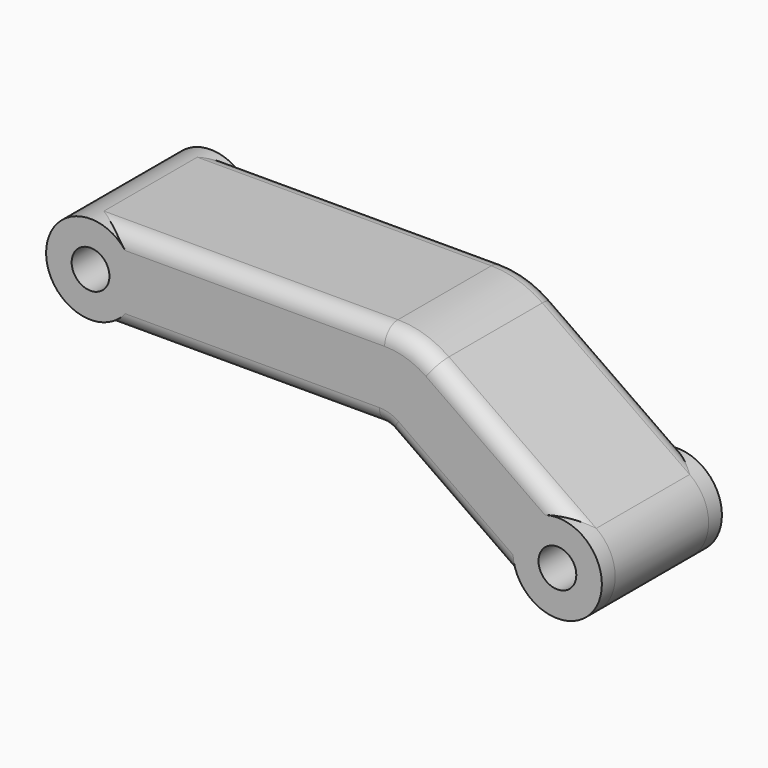
from build123d import *

# Parameters (mm, degrees)
SKETCH007_R              = 1.7
PAD019_DEPTH             = 13.5
FILLET006_R              = 1.5
SKETCH035_R              = 4
SKETCH035_R_2            = 1.7
PAD020_DEPTH             = 13.5
CLONE161_PLACEMENT_ANGLE = 180


with BuildPart() as part:
    # Sketch007 → Pad019 (new body)
    with BuildSketch(Plane(origin=(0, 19.25, 0), x_dir=(-1, 0, 0), z_dir=(0, 1, 0))):
        with BuildLine():
            ThreePointArc((12, 26), (8, 22), (12, 18))
            Line((12, 18), (37.984377, 18))
            ThreePointArc((38.844741, 17.728728), (38.435435, 17.930575), (37.984377, 18))
            Line((38.844741, 17.728728), (51.705713, 8.723378))
            ThreePointArc((51.705713, 8.723378), (57.276616, 9.705705), (56.294304, 15.27661))
            Line((43.045936, 24.553216), (56.294304, 15.27661))
            ThreePointArc((43.045936, 24.553216), (40.862971, 25.629736), (38.457325, 26))
            Line((12, 26), (38.457325, 26))
        make_face()
        with Locations((12, 22)):
            Circle(SKETCH007_R, mode=Mode.SUBTRACT)
        with Locations((54, 12)):
            Circle(SKETCH007_R, mode=Mode.SUBTRACT)
    extrude(amount=PAD019_DEPTH)

    # Fillet006
    fillet006_edges = [part.edges().sort_by_distance(p)[0] for p in [
        (-49.67012, 32.75, 19.914913),
        (-49.67012, 19.25, 19.914913),
    ]]
    fillet(fillet006_edges, radius=FILLET006_R)

    # Sketch035 (on Face12 of Fillet006) → Pad020 (join)
    with BuildSketch(Plane(origin=(0, 32.75, 0), x_dir=(-1, 0, 0), z_dir=(0, 1, 0))):
        with Locations((54, 12)):
            Circle(SKETCH035_R)
        with Locations((54, 12)):
            Circle(SKETCH035_R_2, mode=Mode.SUBTRACT)
        with Locations((12, 22)):
            Circle(SKETCH035_R)
        with Locations((12, 22)):
            Circle(SKETCH035_R_2, mode=Mode.SUBTRACT)
    extrude(amount=-PAD020_DEPTH)


with BuildPart() as part_1:
    # Body002 placement: moved
    add(part.part.moved(Location((0, -5, 0))))


with BuildPart() as part_2:
    # Clone161 placement: moved
    add(part_1.part.moved(Location((47, 47, 8))).rotate(Axis((47, 47, 8), (0, 0, 1)), CLONE161_PLACEMENT_ANGLE))


solid = part_2.part
